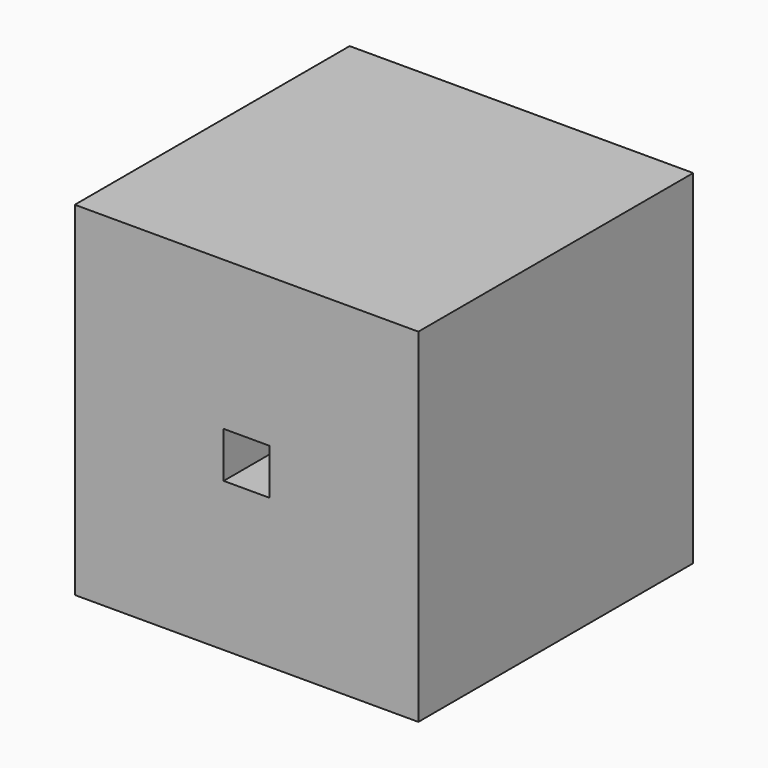
from build123d import *

# Parameters (mm, degrees)
F0_W     = 30
F0_H     = 30
F0_W_2   = 4
F0_H_2   = 4
F1_DEPTH = 15
F2_DEPTH = 2


with BuildPart() as f1:
    # F0 (on Front) → F1 (new body, symmetric)
    with BuildSketch(Plane.XZ):
        Rectangle(F0_W, F0_H)
        Rectangle(F0_W_2, F0_H_2, mode=Mode.SUBTRACT)
    extrude(amount=F1_DEPTH, both=True)

    # F0 (on Front) → F2 (join)
    with BuildSketch(Plane.XZ):
        Rectangle(F0_W_2, F0_H_2)
    extrude(amount=F2_DEPTH)


solid = f1.part
